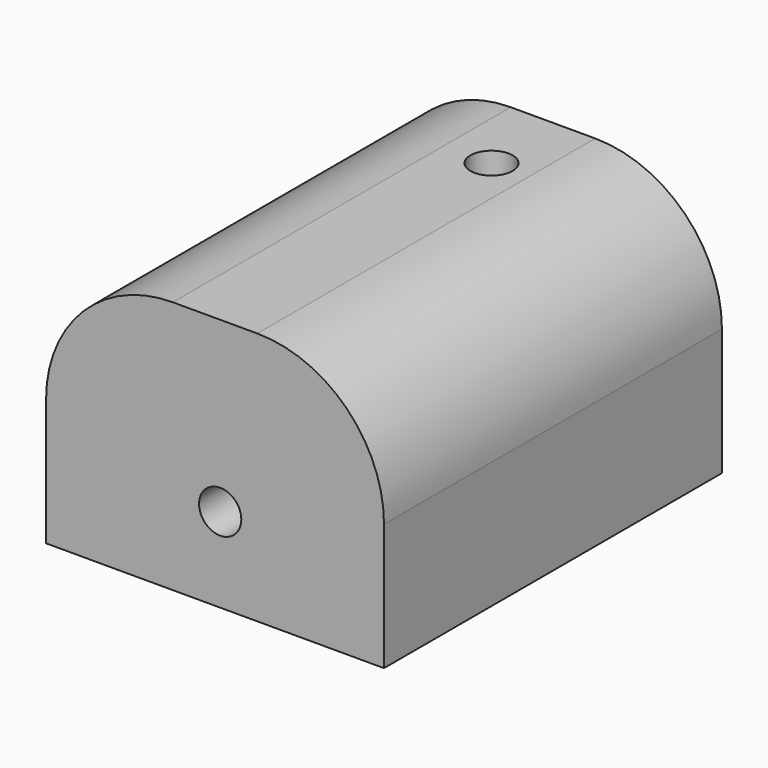
from build123d import *

# Parameters (mm, degrees)
F0_W     = 101.6
F0_H     = 127
F1_DEPTH = 76.2
F2_R     = 38.1
F3_R     = 6.35
F4_DEPTH = 114.3
F5_R     = 6.35
F6_DEPTH = 50.8


with BuildPart() as f1:
    # F0 (on Top) → F1 (new body)
    with BuildSketch(Plane.XY):
        with Locations((-1.54382, 3.250349)):
            Rectangle(F0_W, F0_H)
    extrude(amount=F1_DEPTH)

    # F2
    f2_edges = [f1.edges().sort_by_distance(p)[0] for p in [
        (-52.34382, 3.250349, 76.2),
        (49.25618, 3.250349, 76.2),
    ]]
    fillet(f2_edges, radius=F2_R)

    # F3 (on face) → F4 (cut)
    with BuildSketch(Plane.XZ.offset(60.249651)):
        with Locations((0, 25.4)):
            Circle(F3_R)
    extrude(amount=-F4_DEPTH, mode=Mode.SUBTRACT)

    # F5 (on face) → F6 (cut)
    with BuildSketch(Plane.XY.offset(76.2)):
        with Locations((0, 41.734669)):
            Circle(F5_R)
    extrude(amount=-F6_DEPTH, mode=Mode.SUBTRACT)


solid = f1.part
